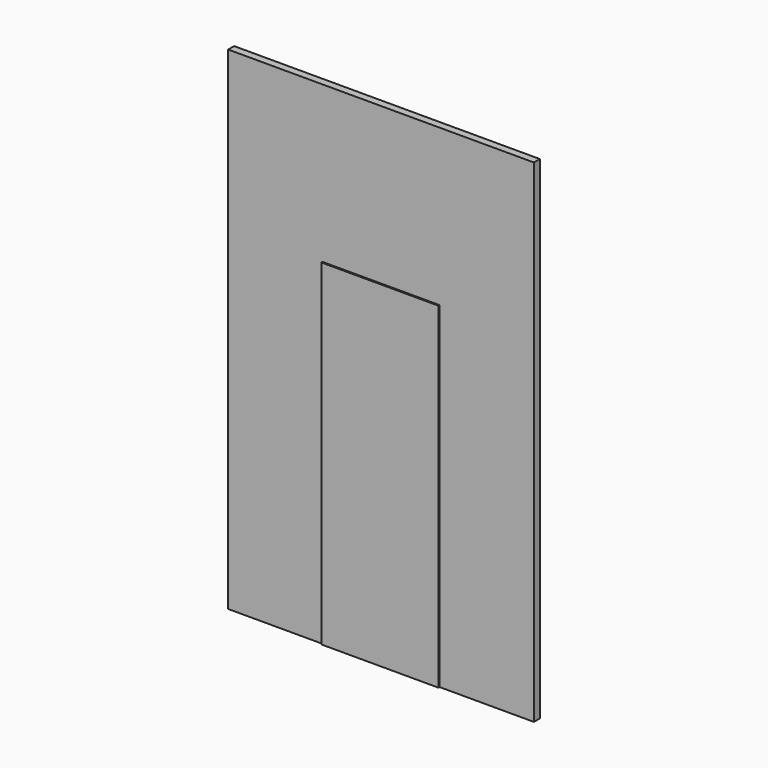
from build123d import *

# Parameters (mm, degrees)
F0_W     = 555
F0_H     = 44
F0_W_2   = 690
F1_DEPTH = 2900
F0_H_2   = 8
F2_DEPTH = 1980


with BuildPart() as f1:
    # F0 (on Top) → F1 (new body)
    with BuildSketch(Plane.XY):
        with Locations((622.5, 0)):
            Rectangle(F0_W, F0_H)
        Rectangle(F0_W_2, F0_H)
        with Locations((-622.5, 0)):
            Rectangle(F0_W, F0_H)
    extrude(amount=F1_DEPTH)

    # F0 (on Top) → F2 (join)
    with BuildSketch(Plane.XY):
        with Locations((0, 26)):
            Rectangle(F0_W_2, F0_H_2)
        Rectangle(F0_W_2, F0_H)
        with Locations((0, -26)):
            Rectangle(F0_W_2, F0_H_2)
    extrude(amount=F2_DEPTH)


solid = f1.part
